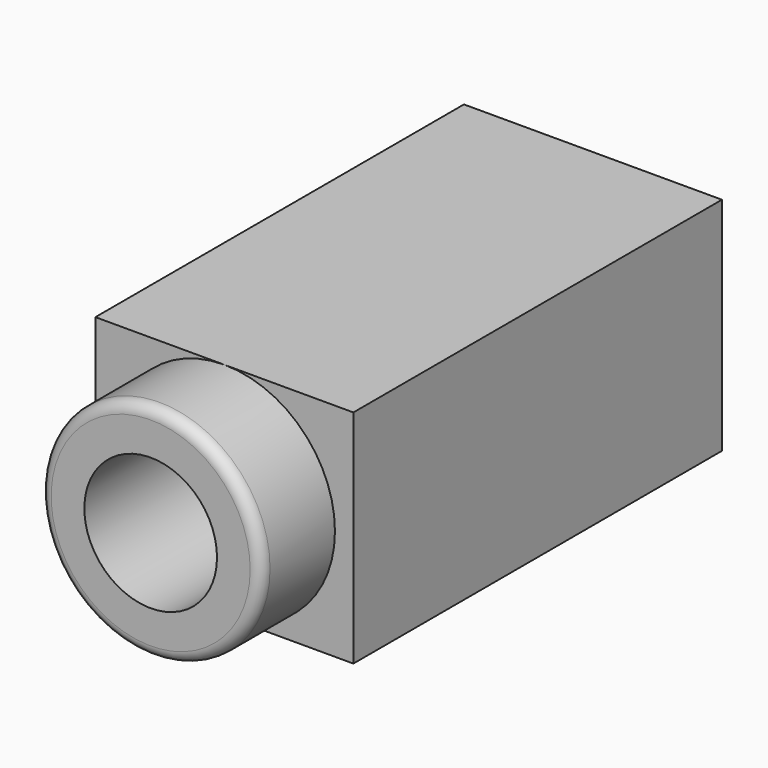
from build123d import *

# Parameters (mm, degrees)
CYLINDER002_R     = 1.8
CYLINDER002_DEPTH = 12
CYLINDER001_R     = 3
CYLINDER001_DEPTH = 2.5
BOX054_W          = 7
BOX054_H          = 12.5
BOX054_DEPTH      = 6
FILLET012_R       = 0.3


with BuildPart() as cylinder002:
    # Cylinder002 → Cylinder002 (new body)
    with BuildSketch(Plane(origin=(0, 9.5, 3), x_dir=(1, 0, 0), z_dir=(0, -1, 0))):
        Circle(CYLINDER002_R)
    extrude(amount=CYLINDER002_DEPTH)


with BuildPart() as cylinder:
    # Cylinder001 → Cylinder001 (new body)
    with BuildSketch(Plane(origin=(0, 0, 3), x_dir=(1, 0, 0), z_dir=(0, -1, 0))):
        Circle(CYLINDER001_R)
    extrude(amount=CYLINDER001_DEPTH)


with BuildPart() as phone_socket_audio_video:
    # Box054 → Box054 (new body)
    with BuildSketch(Plane(origin=(-3.5, 0, 0), x_dir=(1, 0, 0), z_dir=(0, 0, 1))):
        with Locations((3.5, 6.25)):
            Rectangle(BOX054_W, BOX054_H)
    extrude(amount=BOX054_DEPTH)

    # Fusion043: union Cylinder
    add(cylinder.part)

    # Cut010: cut Cylinder002
    add(cylinder002.part, mode=Mode.SUBTRACT)

    # Fillet012
    fillet012_edges = [phone_socket_audio_video.edges().sort_by_distance(p)[0] for p in [
        (-3, -2.5, 3),
    ]]
    fillet(fillet012_edges, radius=FILLET012_R)


with BuildPart() as phone_socket_audio_video_1:
    # Fillet012 placement: moved
    add(phone_socket_audio_video.part.moved(Location((54, 0, 1.5))))


solid = phone_socket_audio_video_1.part
